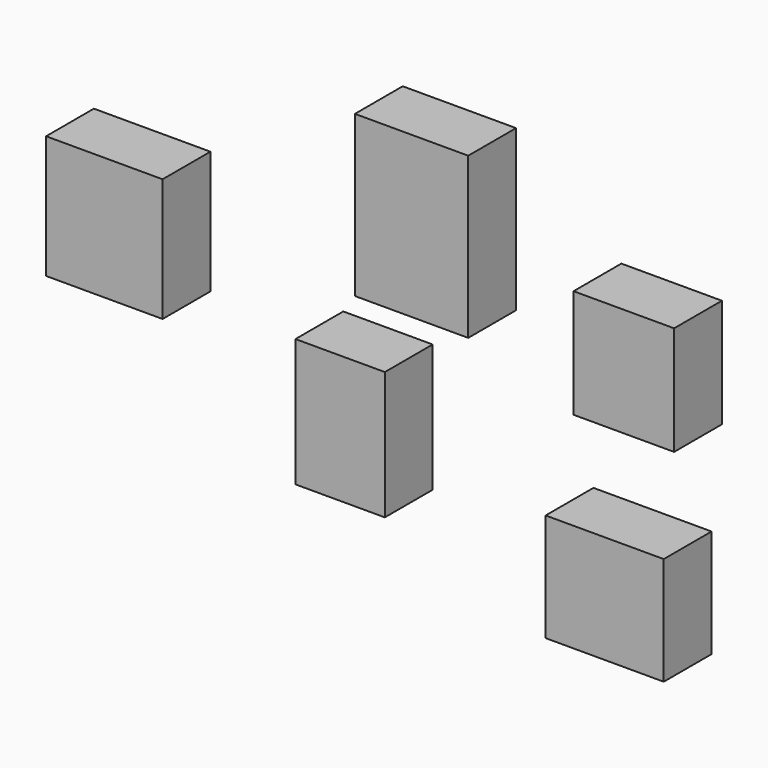
from build123d import *

# Parameters (mm, degrees)
F0_W     = 37.384152
F0_H     = 53.51664
F0_W_2   = 47.397774
F0_H_2   = 67.088492
F0_W_3   = 42.057201
F0_H_3   = 45.51959
F0_W_4   = 49.400501
F0_H_4   = 45.171682
F0_W_5   = 48.732892
F0_H_5   = 51.452137
F1_DEPTH = 25


with BuildPart() as f1:
    # F0 (on Front) → F1 (new body)
    with BuildSketch(Plane.XZ):
        Rectangle(F0_W, F0_H)
        with Locations((29.873947, 84.226653)):
            Rectangle(F0_W_2, F0_H_2)
        with Locations((118.661329, 59.45551)):
            Rectangle(F0_W_3, F0_H_3)
        with Locations((110.650446, -26.75832)):
            Rectangle(F0_W_4, F0_H_4)
        with Locations((-98.634109, 41.78898)):
            Rectangle(F0_W_5, F0_H_5)
    extrude(amount=F1_DEPTH)


solid = f1.part
